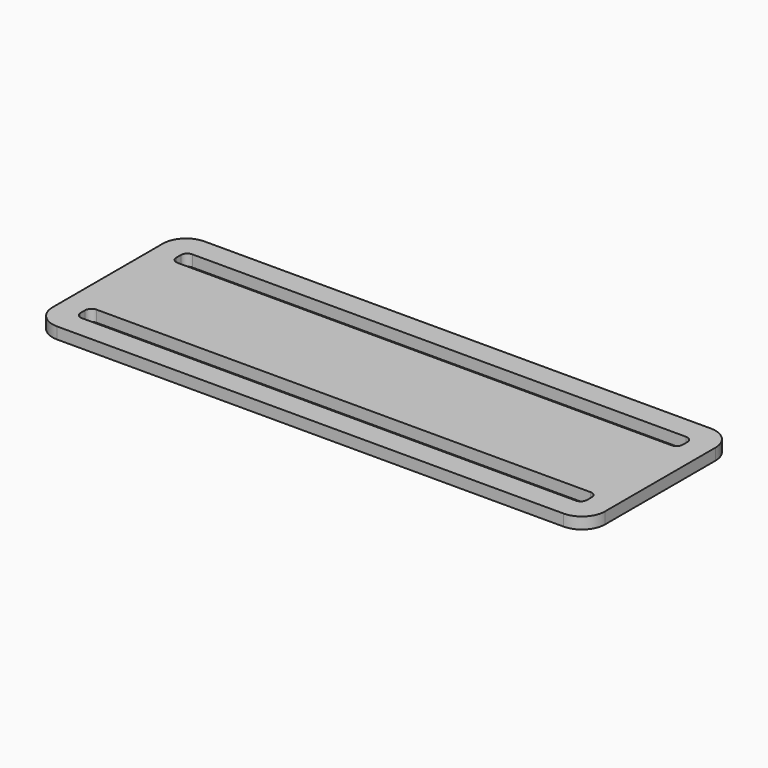
from build123d import *

# Parameters (mm, degrees)
F1_DEPTH = 2.5


with BuildPart() as f1:
    # F0 (on Top) → F1 (new body)
    with BuildSketch(Plane.XY):
        with BuildLine():
            Line((51.910336, 20.642742), (-58.089664, 20.642742))
            ThreePointArc((-58.089664, 20.642742), (-61.625198, 19.178275), (-63.089664, 15.642742))
            Line((-63.089664, 15.642742), (-63.089664, -14.357258))
            ThreePointArc((-63.089664, -14.357258), (-61.625198, -17.892792), (-58.089664, -19.357258))
            Line((-58.089664, -19.357258), (51.910336, -19.357258))
            ThreePointArc((51.910336, -19.357258), (55.44587, -17.892792), (56.910336, -14.357258))
            Line((56.910336, -14.357258), (56.910336, 15.642742))
            ThreePointArc((56.910336, 15.642742), (55.44587, 19.178275), (51.910336, 20.642742))
        make_face()
        with BuildLine():
            Line((50.540434, -14.357258), (-56.719762, -14.357258))
            ThreePointArc((-56.719762, -14.357258), (-57.688429, -13.956023), (-58.089664, -12.987356))
            Line((-58.089664, -12.987356), (-58.089664, -11.727161))
            ThreePointArc((-58.089664, -11.727161), (-57.688429, -10.758493), (-56.719762, -10.357258))
            Line((-56.719762, -10.357258), (50.540434, -10.357258))
            ThreePointArc((50.540434, -10.357258), (51.509101, -10.758493), (51.910336, -11.727161))
            Line((51.910336, -11.727161), (51.910336, -12.987356))
            ThreePointArc((51.910336, -12.987356), (51.509101, -13.956023), (50.540434, -14.357258))
        make_face(mode=Mode.SUBTRACT)
        with BuildLine():
            ThreePointArc((-58.089664, 14.272839), (-57.688429, 15.241507), (-56.719762, 15.642742))
            Line((-56.719762, 15.642742), (50.540434, 15.642742))
            ThreePointArc((50.540434, 15.642742), (51.509101, 15.241507), (51.910336, 14.272839))
            Line((51.910336, 14.272839), (51.910336, 13.012644))
            ThreePointArc((51.910336, 13.012644), (51.509101, 12.043977), (50.540434, 11.642742))
            Line((50.540434, 11.642742), (-56.719762, 11.642742))
            ThreePointArc((-56.719762, 11.642742), (-57.688429, 12.043977), (-58.089664, 13.012644))
            Line((-58.089664, 13.012644), (-58.089664, 14.272839))
        make_face(mode=Mode.SUBTRACT)
    extrude(amount=F1_DEPTH)


solid = f1.part
